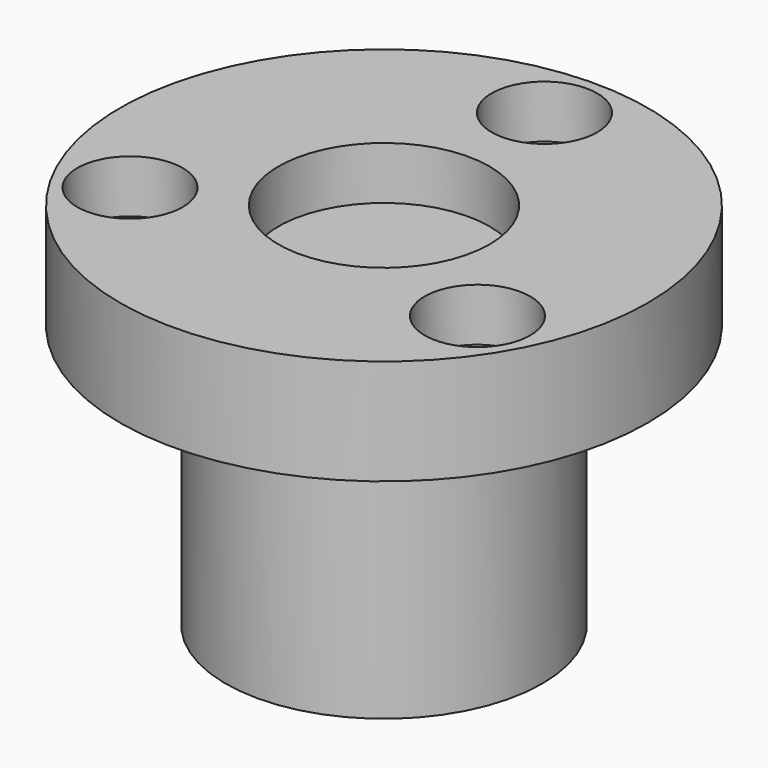
from build123d import *

# Parameters (mm, degrees)
F0_R     = 38.1
F0_R_2   = 32.0675
F1_DEPTH = 63.5
F2_DEPTH = 6.35
F3_R     = 4.7625
F4_DEPTH = 25.4
F5_R     = 63.5
F6_DEPTH = 25.4
F7_R     = 12.7
F7_R_2   = 25.4
F8_DEPTH = 12.7


with BuildPart() as f1:
    # F0 (on Top) → F1 (new body)
    with BuildSketch(Plane.XY):
        Circle(F0_R)
        Circle(F0_R_2, mode=Mode.SUBTRACT)
        Circle(F0_R_2)
    extrude(amount=F1_DEPTH)

    # F0 (on Top) → F2 (cut)
    with BuildSketch(Plane.XY):
        Circle(F0_R_2)
    extrude(amount=F2_DEPTH, mode=Mode.SUBTRACT)

    # F3 (on Top) → F4 (cut)
    with BuildSketch(Plane.XY):
        Circle(F3_R)
    extrude(amount=F4_DEPTH, mode=Mode.SUBTRACT)

    # F5 (on face) → F6 (join)
    with BuildSketch(Plane.XY.offset(63.5)):
        Circle(F5_R)
    extrude(amount=F6_DEPTH)

    # F7 (on face) → F8 (cut)
    with BuildSketch(Plane.XY.offset(88.9)):
        with Locations((0, 48.26)):
            Circle(F7_R)
        with Locations((-41.794386, -24.13)):
            Circle(F7_R)
        with Locations((41.794386, -24.13)):
            Circle(F7_R)
        Circle(F7_R_2)
    extrude(amount=-F8_DEPTH, mode=Mode.SUBTRACT)


solid = f1.part
